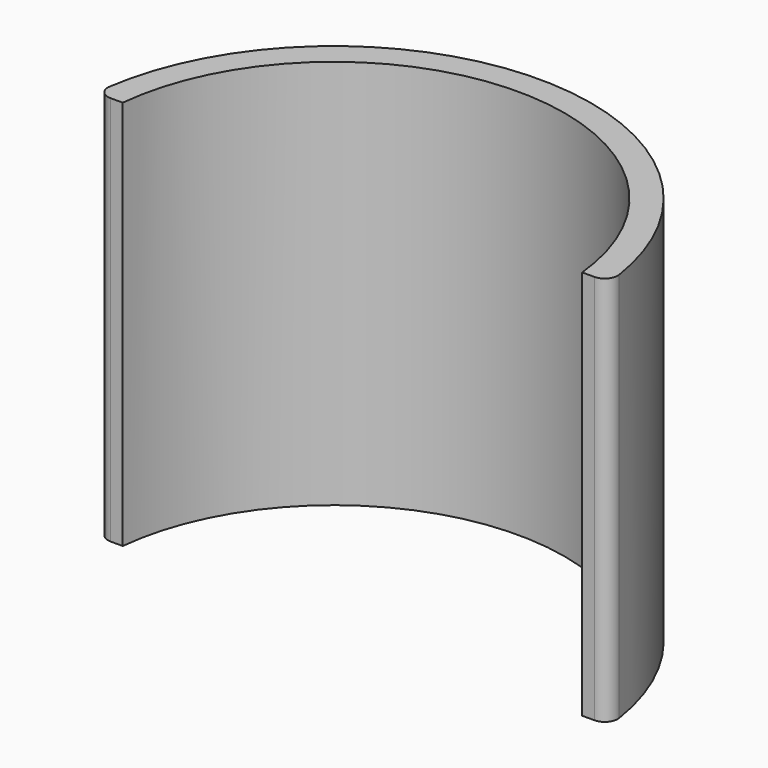
from build123d import *

# Parameters (mm, degrees)
SKETCH053_R          = 19.8
SKETCH053_R_2        = 17.75
PAD020_DEPTH         = 15
SKETCH054_W          = 40
SKETCH054_H          = 22
POCKET033_DEPTH      = 15.001
POCKET033_DEPTH_BACK = 15.001
FILLET009_R          = 1


with BuildPart() as part:
    # Sketch053 → Pad020 (new body, symmetric)
    with BuildSketch(Plane.XY):
        Circle(SKETCH053_R)
        Circle(SKETCH053_R_2, mode=Mode.SUBTRACT)
    extrude(amount=PAD020_DEPTH, both=True)

    # Sketch054 → Pocket033 (cut, two sides)
    with BuildSketch(Plane.XY) as pocket033_sk:
        with Locations((0, -9.2)):
            Rectangle(SKETCH054_W, SKETCH054_H)
    extrude(amount=-POCKET033_DEPTH, mode=Mode.SUBTRACT)
    extrude(pocket033_sk.sketch, amount=POCKET033_DEPTH_BACK, mode=Mode.SUBTRACT)

    # Fillet009
    fillet009_edges = [part.edges().sort_by_distance(p)[0] for p in [
        (-19.718012, 1.8, 0),
        (19.718012, 1.8, 0),
    ]]
    fillet(fillet009_edges, radius=FILLET009_R)


solid = part.part
